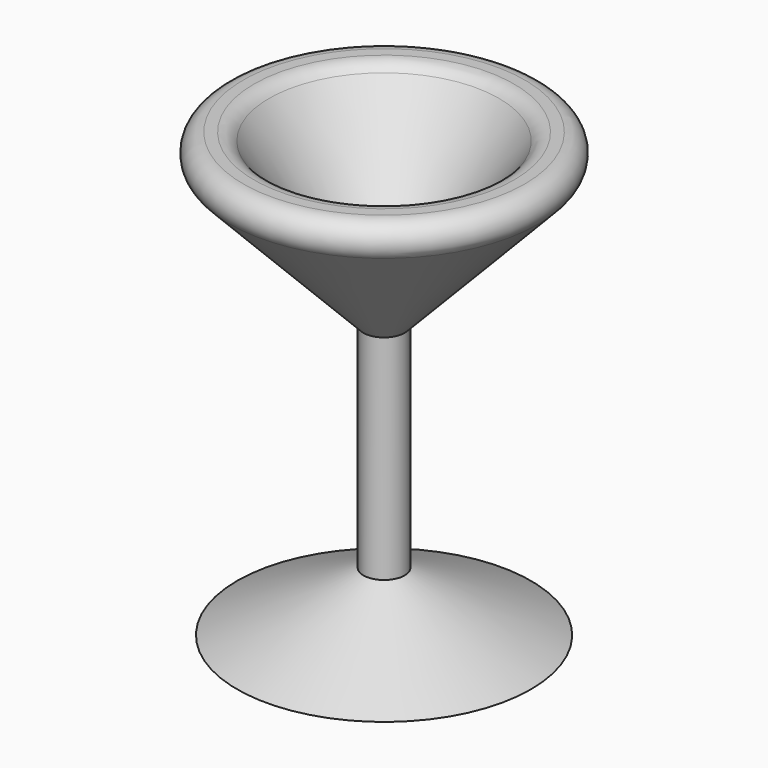
from build123d import *

# Parameters (mm, degrees)
F2_R = 5.08
F3_R = 5.08


with BuildPart() as f1:
    # F0 (on Front) → F1 (revolve)
    with BuildSketch(Plane.XZ):
        Polygon((45.1151281595, 56.5034113824), (27.5946892798, 56.5034113824), (-5.6941420771, 9.4902375713), (-5.6941420771, -65.8476427197), (34.8948761821, -65.8476427197), (0, -49.4952350855), (0, 9.4902375713), align=None)
    revolve(axis=Axis((-5.6941420771, 0, -28.1787025742), (0, 0, 1)))

    # F2
    f2_edges = [f1.edges().sort_by_distance(p)[0] for p in [
        (-56.503412, 0, 56.503411),
    ]]
    fillet(f2_edges, radius=F2_R)

    # F3
    f3_edges = [f1.edges().sort_by_distance(p)[0] for p in [
        (-38.982973, 0, 56.503411),
    ]]
    fillet(f3_edges, radius=F3_R)


solid = f1.part
